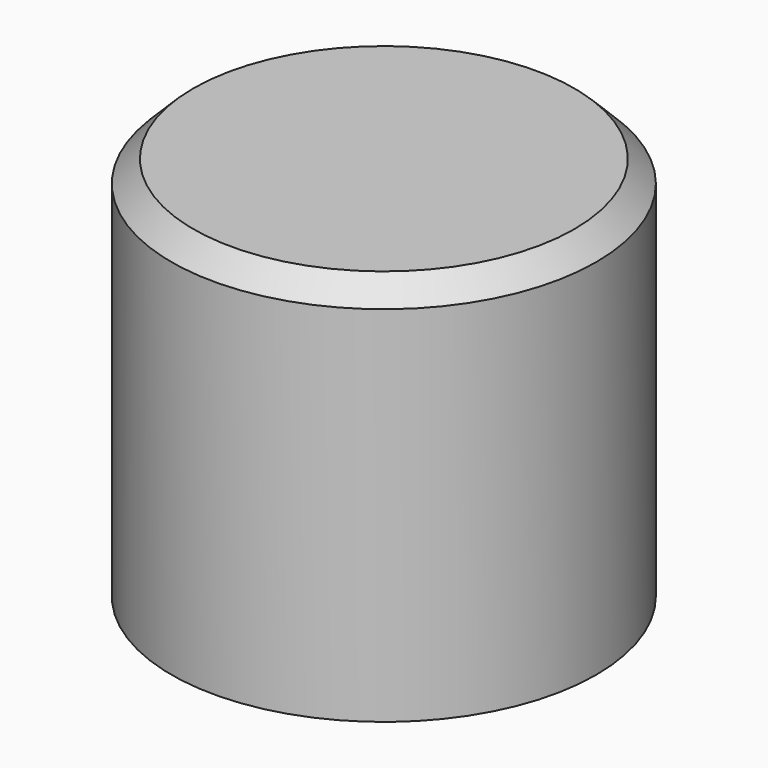
from build123d import *

# Parameters (mm, degrees)
F0_R     = 49.303083
F1_DEPTH = 89.408
F2_SIZE  = 5.08
F3_R     = 33.713024
F4_DEPTH = 70.104


with BuildPart() as f1:
    # F0 (on Top) → F1 (new body)
    with BuildSketch(Plane.XY):
        Circle(F0_R)
    extrude(amount=F1_DEPTH)

    # F2
    f2_edges = [f1.edges().sort_by_distance(p)[0] for p in [
        (-49.303083, 0, 89.408),
    ]]
    chamfer(f2_edges, length=F2_SIZE)

    # F3 (on Top) → F4 (cut)
    with BuildSketch(Plane.XY):
        Circle(F3_R)
    extrude(amount=F4_DEPTH, mode=Mode.SUBTRACT)


solid = f1.part
